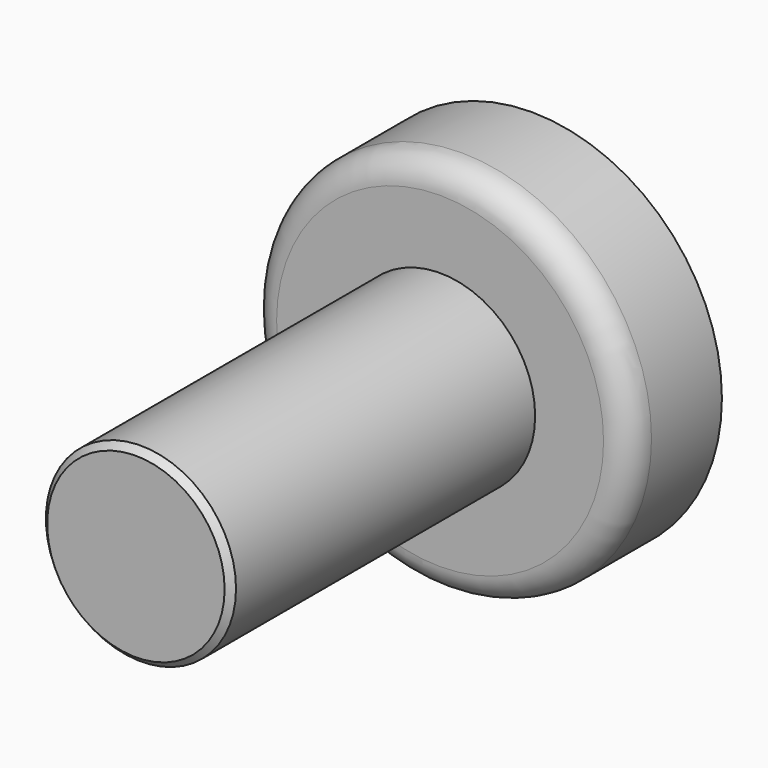
from build123d import *

# Parameters (mm, degrees)
POCKET_DEPTH = 1


with BuildPart() as part:
    # Sketch → Revolution (revolve)
    with BuildSketch(Plane.XY):
        with BuildLine():
            Line((0, -6), (1.4, -6))
            Line((1.4, -6), (1.5, -5.9))
            Line((1.5, -5.9), (1.5, 0))
            Line((1.5, 0), (2.579564, 0))
            ThreePointArc((2.579564, 0), (2.876857, 0.123143), (3, 0.420436))
            Line((3, 1.808972), (3, 0.420436))
            ThreePointArc((3, 1.808972), (1.973047, 2.323042), (0.838329, 2.5))
            Line((0.838329, 2.5), (0, 2.5))
            Line((0, 2.5), (0, -6))
        make_face()
    revolve(axis=Axis((0, 0, 0), (0, 1, 0)))

    # Sketch001 (on Face2 of Revolution) → Pocket (cut)
    with BuildSketch(Plane(origin=(0, 2.5, 0), x_dir=(-1, 0, 0), z_dir=(0, 1, 0))):
        Polygon((-0.478807, 2), (0.478807, 2), (0.478807, 0.510631), (2, 0.510631), (2, -0.510631), (0.478807, -0.510631), (0.478807, -2), (-0.478807, -2), (-0.478807, -0.510631), (-2, -0.510631), (-2, 0.510631), (-0.478807, 0.510631), align=None)
    extrude(amount=-POCKET_DEPTH, mode=Mode.SUBTRACT)


solid = part.part
